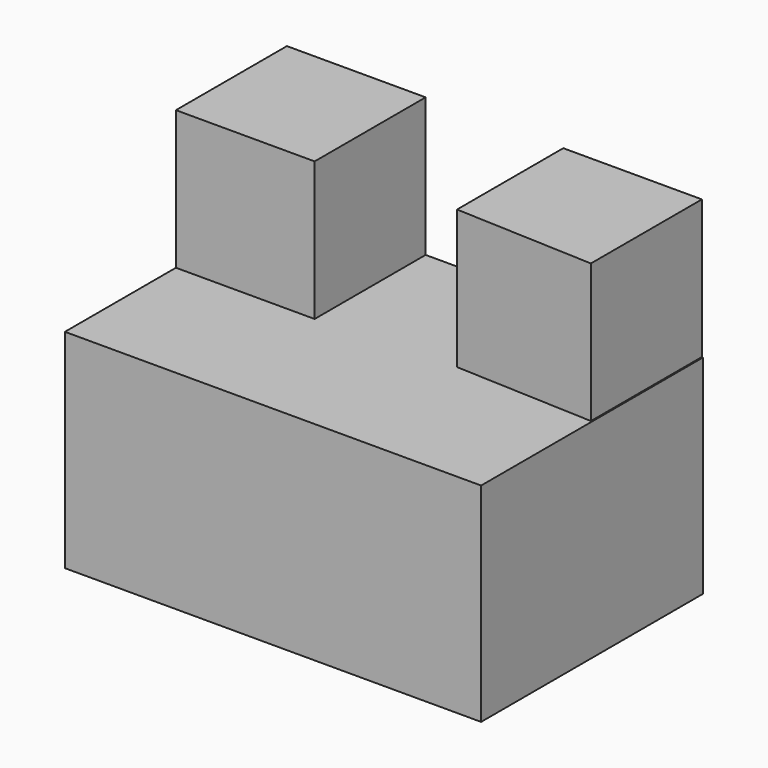
from build123d import *

# Parameters (mm, degrees)
F0_W     = 38.1
F0_H     = 31.75
F1_DEPTH = 25.4
F4_DEPTH = 25.4
F5_DEPTH = 12.7


with BuildPart() as f1:
    # F0 (on Front) → F1 (new body)
    with BuildSketch(Plane.XZ):
        with Locations((19.05, 15.875)):
            Rectangle(F0_W, F0_H)
    extrude(amount=F1_DEPTH)

    # F3 (on face) → F4 (cut)
    with BuildSketch(Plane.XY.offset(31.75)):
        Polygon((37.9892475903, 0), (37.9892475903, -12.7), (25.3008189245, -12.1579870905), (25.3008189245, 0), (12.7, 0), (12.7, -12.7), (0, -12.7), (0, -25.4), (38.1, -25.4), (38.1, 0), align=None)
    extrude(amount=-F4_DEPTH, mode=Mode.SUBTRACT)

    # F5 (add): a face of the model
    f5_faces = [f1.faces().sort_by_distance(p)[0] for p in [
        (19.1345000359, -15.8550557875, 6.35),
    ]]
    extrude(f5_faces, amount=F5_DEPTH)


solid = f1.part
